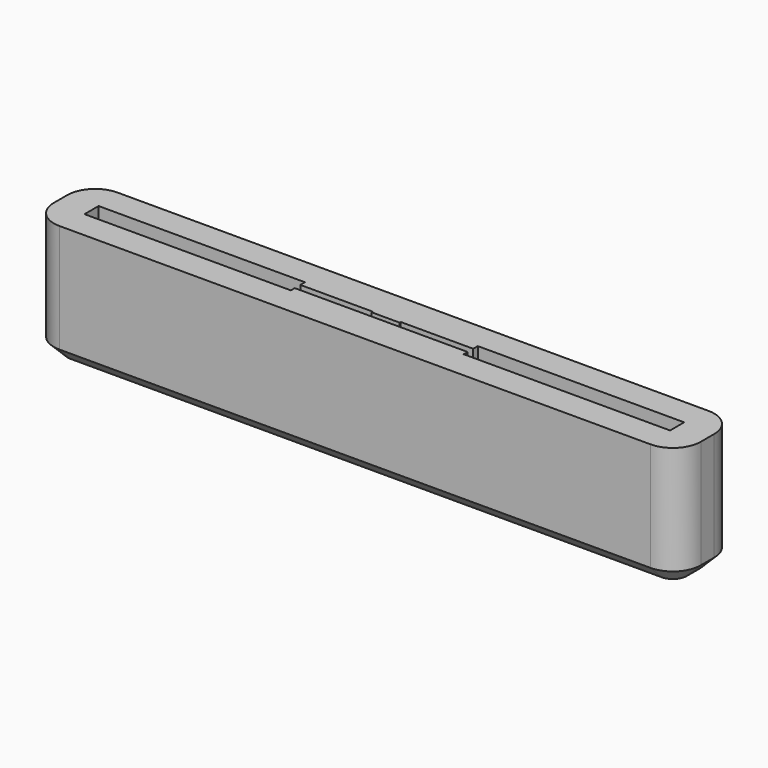
from build123d import *

# Parameters (mm, degrees)
F0_W     = 46.4
F0_H     = 5.2
F0_W_2   = 14.8002340496
F0_H_2   = 0.4131594501
F0_H_3   = 0.3522689282
F1_DEPTH = 2
F2_DEPTH = 6.8
F3_R     = 2
F4_SIZE  = 1
F5_W     = 2
F5_H     = 0.1
F6_DEPTH = 2


with BuildPart() as f1:
    # F0 (on Top) → F1 (new body)
    with BuildSketch(Plane.XY):
        with Locations((0, -2.6)):
            Rectangle(F0_W, F0_H)
        Polygon((-21, -2.85), (-21, -2.35), (-21, -1.9368405499), (-6.1997659504, -1.9368405499), (-6.1997659504, -2.35), (0, -2.35), (6.1997659504, -2.35), (6.1997659504, -1.9368405499), (21, -1.9368405499), (21, -2.35), (21, -2.85), (21, -3.2022689282), (6.1997659504, -3.2022689282), (6.1997659504, -2.85), (0, -2.85), (-6.1997659504, -2.85), (-6.1997659504, -3.2022689282), (-21, -3.2022689282), align=None, mode=Mode.SUBTRACT)
        Polygon((-6.1997659504, -2.35), (-21, -2.35), (-21, -2.85), (-6.1997659504, -2.85), (0, -2.85), (6.1997659504, -2.85), (21, -2.85), (21, -2.35), (6.1997659504, -2.35), (0, -2.35), align=None)
        with Locations((-13.5998829752, -2.143420275)):
            Rectangle(F0_W_2, F0_H_2)
        with Locations((13.5998829752, -2.143420275)):
            Rectangle(F0_W_2, F0_H_2)
        with Locations((-13.5998829752, -3.0261344641)):
            Rectangle(F0_W_2, F0_H_3)
        with Locations((13.5998829752, -3.0261344641)):
            Rectangle(F0_W_2, F0_H_3)
    extrude(amount=-F1_DEPTH)

    # F0 (on Top) → F2 (join)
    with BuildSketch(Plane.XY):
        with Locations((0, -2.6)):
            Rectangle(F0_W, F0_H)
        Polygon((-21, -2.85), (-21, -2.35), (-21, -1.9368405499), (-6.1997659504, -1.9368405499), (-6.1997659504, -2.35), (0, -2.35), (6.1997659504, -2.35), (6.1997659504, -1.9368405499), (21, -1.9368405499), (21, -2.35), (21, -2.85), (21, -3.2022689282), (6.1997659504, -3.2022689282), (6.1997659504, -2.85), (0, -2.85), (-6.1997659504, -2.85), (-6.1997659504, -3.2022689282), (-21, -3.2022689282), align=None, mode=Mode.SUBTRACT)
    extrude(amount=F2_DEPTH)

    # F3
    f3_edges = [f1.edges().sort_by_distance(p)[0] for p in [
        (23.2, -5.2, 2.4),
        (23.2, 0, 2.4),
        (-23.2, -5.2, 2.4),
        (-23.2, 0, 2.4),
    ]]
    fillet(f3_edges, radius=F3_R)

    # F4
    f4_edges = [f1.edges().sort_by_distance(p)[0] for p in [
        (0, 0, -2),
        (22.614214, -0.585786, -2),
        (-22.614214, -0.585786, -2),
        (23.2, -2.6, -2),
        (-23.2, -2.6, -2),
        (22.614214, -4.614214, -2),
        (-22.614214, -4.614214, -2),
        (0, -5.2, -2),
    ]]
    chamfer(f4_edges, length=F4_SIZE)

    # F5 (on face) → F6 (join)
    with BuildSketch(Plane.XY.offset(6.8)):
        with Locations((0, -2.4)):
            Rectangle(F5_W, F5_H)
    extrude(amount=-F6_DEPTH)


solid = f1.part
